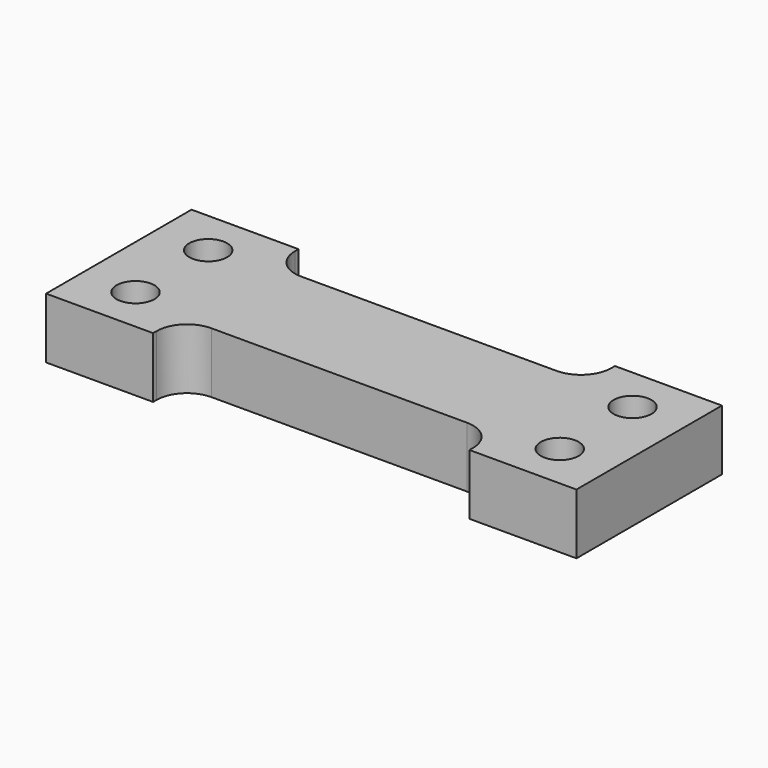
from build123d import *

# Parameters (mm, degrees)
F0_R     = 1.25
F1_DEPTH = 4


with BuildPart() as f1:
    # F0 (on Top) → F1 (new body)
    with BuildSketch(Plane.XY):
        with BuildLine():
            Line((-17.5, 0), (-17.5, -6))
            Line((-17.5, -6), (-10.4381, -6))
            Line((-10.4381, -6), (-10.4381, -5.7))
            ThreePointArc((-10.4381, -5.7), (-9.852314, -4.285786), (-8.4381, -3.7))
            Line((-8.4381, -3.7), (-1.488885, -3.7))
            Line((-1.488885, -3.7), (0, -3.7))
            Line((0, -3.7), (1.488885, -3.7))
            Line((1.488885, -3.7), (8.4381, -3.7))
            ThreePointArc((8.4381, -3.7), (9.852314, -4.285786), (10.4381, -5.7))
            Line((10.4381, -5.7), (10.4381, -6))
            Line((10.4381, -6), (17.5, -6))
            Line((17.5, -6), (17.5, 0))
            Line((17.5, 0), (17.5, 6))
            Line((17.5, 6), (10.4381, 6))
            Line((10.4381, 6), (10.4381, 5.7))
            ThreePointArc((10.4381, 5.7), (9.852314, 4.285786), (8.4381, 3.7))
            Line((8.4381, 3.7), (1.488885, 3.7))
            Line((1.488885, 3.7), (0, 3.7))
            Line((0, 3.7), (-1.488885, 3.7))
            Line((-1.488885, 3.7), (-8.4381, 3.7))
            ThreePointArc((-8.4381, 3.7), (-9.852314, 4.285786), (-10.4381, 5.7))
            Line((-10.4381, 5.7), (-10.4381, 6))
            Line((-10.4381, 6), (-17.5, 6))
            Line((-17.5, 6), (-17.5, 0))
        make_face()
        with Locations((-14, -3)):
            Circle(F0_R, mode=Mode.SUBTRACT)
        with Locations((14, -3)):
            Circle(F0_R, mode=Mode.SUBTRACT)
        with Locations((-14, 3)):
            Circle(F0_R, mode=Mode.SUBTRACT)
        with Locations((14, 3)):
            Circle(F0_R, mode=Mode.SUBTRACT)
    extrude(amount=F1_DEPTH)


solid = f1.part
